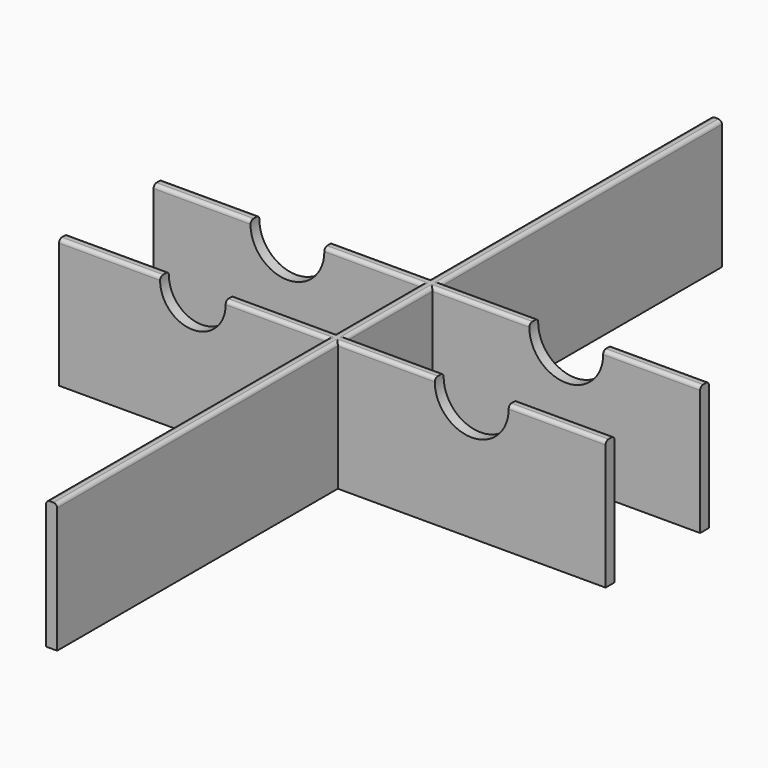
from build123d import *

# Parameters (mm, degrees)
F1_DEPTH = 35
F2_R     = 1
F4_DEPTH = 25
F6_DEPTH = 25
F8_DEPTH = 130.001


with BuildPart() as f1:
    # F0 (on Top) → F1 (new body)
    with BuildSketch(Plane.XY):
        Polygon((1.5, 17.5), (1.5, 112.5), (-1.5, 112.5), (-1.5, 17.5), (-74, 17.5), (-74, 14.5), (-1.5, 14.5), (-1.5, -14.5), (-74, -14.5), (-74, -17.5), (-1.5, -17.5), (-1.5, -112.5), (1.5, -112.5), (1.5, -17.5), (74, -17.5), (74, -14.5), (1.5, -14.5), (1.5, 14.5), (74, 14.5), (74, 17.5), align=None)
    extrude(amount=F1_DEPTH)

    # F2
    f2_edges = [f1.edges().sort_by_distance(p)[0] for p in [
        (-37.75, 14.5, 35),
        (-1.5, 65, 35),
        (-37.75, 17.5, 35),
        (1.5, 65, 35),
        (37.75, 17.5, 35),
        (37.75, 14.5, 35),
        (1.5, 0, 35),
        (-1.5, 0, 35),
        (-37.75, -14.5, 35),
        (-37.75, -17.5, 35),
        (37.75, -14.5, 35),
        (37.75, -17.5, 35),
        (-1.5, -65, 35),
        (1.5, -65, 35),
    ]]
    fillet(f2_edges, radius=F2_R)

    # F3 (on face) → F4 (cut)
    with BuildSketch(Plane.XZ.offset(17.5)):
        with BuildLine():
            ThreePointArc((-46.6319660113, 34), (-37.75, 25.1180339887), (-28.8680339887, 34))
            Line((-28.8680339887, 34), (-46.6319660113, 34))
        make_face()
        with BuildLine():
            Line((-46.6319660113, 34), (-28.8680339887, 34))
            ThreePointArc((-28.8680339887, 34), (-37.75, 42.8819660113), (-46.6319660113, 34))
        make_face()
    extrude(amount=-F4_DEPTH, mode=Mode.SUBTRACT)

    # F5 (on face) → F6 (cut)
    with BuildSketch(Plane.XZ.offset(-14.5)):
        with BuildLine():
            ThreePointArc((-47.75, 34), (-37.75, 24), (-27.75, 34))
            Line((-27.75, 34), (-47.75, 34))
        make_face()
        with BuildLine():
            Line((-47.75, 34), (-27.75, 34))
            ThreePointArc((-27.75, 34), (-37.75, 44), (-47.75, 34))
        make_face()
    extrude(amount=-F6_DEPTH, mode=Mode.SUBTRACT)

    # F7 (on face) → F8 (cut, through all)
    with BuildSketch(Plane.XZ.offset(17.5)):
        with BuildLine():
            Line((27.75, 34), (47.75, 34))
            ThreePointArc((47.75, 34), (37.75, 44), (27.75, 34))
        make_face()
        with BuildLine():
            ThreePointArc((27.75, 34), (37.75, 24), (47.75, 34))
            Line((47.75, 34), (27.75, 34))
        make_face()
    extrude(amount=-F8_DEPTH, mode=Mode.SUBTRACT)


solid = f1.part
